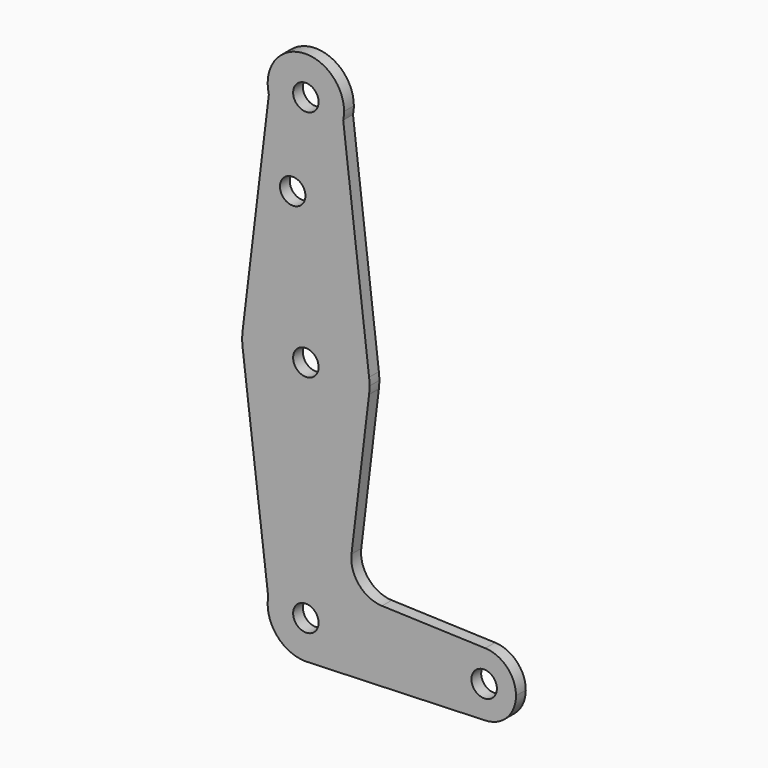
from build123d import *

# Parameters (mm, degrees)
F0_R     = 3.175
F1_DEPTH = 3.048


with BuildPart() as f1:
    # F0 (on Front) → F1 (new body)
    with BuildSketch(Plane.XZ):
        with BuildLine():
            ThreePointArc((9.3119289141, 112.2966016627), (9.4715824419, 113.2926514772), (9.525, 114.3))
            ThreePointArc((9.525, 114.3), (-1.1919554221, 123.7501252516), (-9.2266781673, 111.9348287595))
            ThreePointArc((-9.2266781673, 111.9348287595), (0.185840875, 104.7768131296), (9.3119289141, 112.2966016627))
        make_face()
        with Locations((0, 114.3)):
            Circle(F0_R, mode=Mode.SUBTRACT)
        with BuildLine():
            ThreePointArc((9.3119289141, 112.2966016627), (0.185840875, 104.7768131296), (-9.2266781673, 111.9348287595))
            Line((-9.2266781673, 111.9348287595), (-15.7597557206, 58.0116650976))
            ThreePointArc((-15.7597557206, 58.0116650976), (0.0186000639, 71.9772761278), (15.7641867227, 57.9747298065))
            Line((15.7641867227, 57.9747298065), (9.3119289141, 112.2966016627))
        make_face()
        with Locations((-3.282078309, 92.6274870243)):
            Circle(F0_R, mode=Mode.SUBTRACT)
        with BuildLine():
            ThreePointArc((15.7641867227, 57.9747298065), (0.0186000639, 71.9772761278), (-15.7597557206, 58.0116650976))
            ThreePointArc((-15.7597557206, 58.0116650976), (-15.875, 56.1022870243), (-15.7597557206, 54.1929089509))
            ThreePointArc((-15.7597557206, 54.1929089509), (0.0186000639, 40.2272979207), (15.7641867227, 54.229844242))
            ThreePointArc((15.7641867227, 54.229844242), (15.847272466, 55.1644275525), (15.875, 56.1022870243))
            ThreePointArc((15.875, 56.1022870243), (15.847272466, 57.040146496), (15.7641867227, 57.9747298065))
        make_face()
        with Locations((0, 56.1022870243)):
            Circle(F0_R, mode=Mode.SUBTRACT)
        with BuildLine():
            Line((11.3783165886, 17.7429577578), (15.7641867227, 54.229844242))
            ThreePointArc((15.7641867227, 54.229844242), (0.0186000639, 40.2272979207), (-15.7597557206, 54.1929089509))
            Line((-15.7597557206, 54.1929089509), (-9.388596698, 1.6061995649))
            ThreePointArc((-9.388596698, 1.6061995649), (0.8059905246, 9.4908379121), (9.525, 0))
            ThreePointArc((9.525, 0), (6.9705567315, -6.4912990883), (0.6773435479, -9.500885786))
            Line((0.6773435479, -9.500885786), (44.7324052746, -7.9324746146))
            ThreePointArc((44.7324052746, -7.9324746146), (36.5125, 0), (44.7324052746, 7.9324746146))
            Line((44.7324052746, 7.9324746146), (18.9888382494, 8.8489753873))
            ThreePointArc((18.9888382494, 8.8489753873), (13.2311292563, 11.6252696435), (11.3783165886, 17.7429577578))
        make_face()
        with BuildLine():
            ThreePointArc((9.525, 0), (0.8059905246, 9.4908379121), (-9.388596698, 1.6061995649))
            ThreePointArc((-9.388596698, 1.6061995649), (-7.2809572123, -6.1411144813), (0, -9.525))
            Line((0, -9.525), (0.6773435479, -9.500885786))
            ThreePointArc((0.6773435479, -9.500885786), (6.9705567315, -6.4912990883), (9.525, 0))
        make_face()
        Circle(F0_R, mode=Mode.SUBTRACT)
        with BuildLine():
            ThreePointArc((52.3875, 0), (50.1616327839, 5.5119104847), (44.7324052746, 7.9324746146))
            ThreePointArc((44.7324052746, 7.9324746146), (36.5125, 0), (44.7324052746, -7.9324746146))
            ThreePointArc((44.7324052746, -7.9324746146), (50.1616327839, -5.5119104847), (52.3875, 0))
        make_face()
        with Locations((44.45, 0)):
            Circle(F0_R, mode=Mode.SUBTRACT)
    extrude(amount=F1_DEPTH)


solid = f1.part
